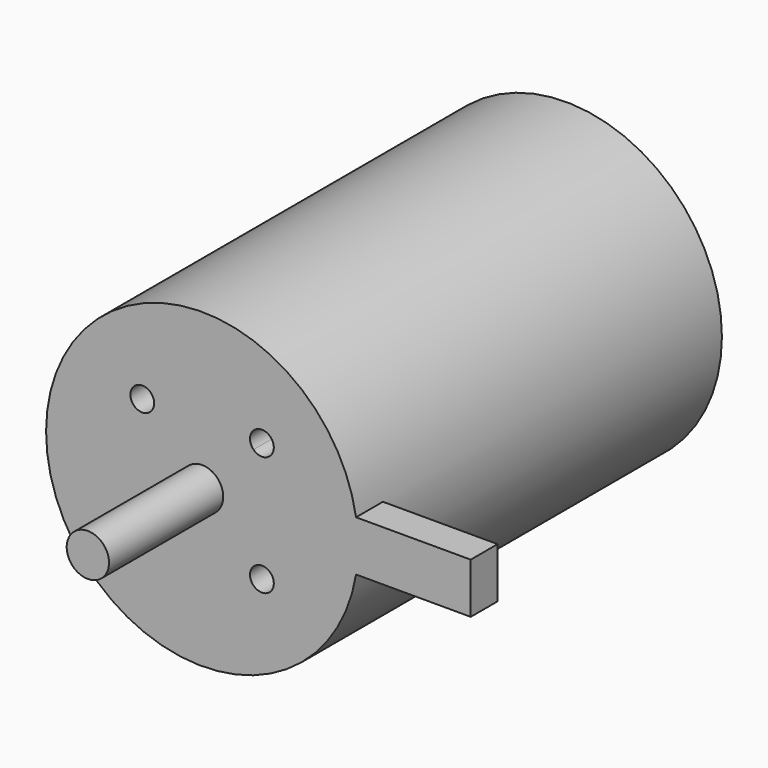
from build123d import *

# Parameters (mm, degrees)
F0_R     = 29.5
F1_DEPTH = 86
F2_R     = 4
F3_DEPTH = 27
F5_W     = 6.35
F5_H     = 9.525
F6_DEPTH = 50.8
F4_R     = 2.25
F7_DEPTH = 25.4


with BuildPart() as f1:
    # F0 (on Front) → F1 (new body)
    with BuildSketch(Plane.XZ):
        Circle(F0_R)
    extrude(amount=F1_DEPTH)

    # F2 (on face) → F3 (join)
    with BuildSketch(Plane.XZ.offset(86)):
        Circle(F2_R)
    extrude(amount=F3_DEPTH)

    # F5 (on Right) → F6 (join)
    with BuildSketch(Plane.YZ):
        with Locations((-82.825, 0)):
            Rectangle(F5_W, F5_H)
    extrude(amount=F6_DEPTH)

    # F4 (on face) → F7 (cut)
    with BuildSketch(Plane.XZ.offset(86)):
        with BuildLine():
            ThreePointArc((9.722718, 9.722718), (12.174746, 9.23498), (13.563708, 11.313708))
            ThreePointArc((13.563708, 11.313708), (10.452671, 13.392437), (9.722718, 9.722718))
        make_face()
        with Locations((-11.313708, 11.313708)):
            Circle(F4_R)
        with Locations((-11.313708, -11.313708)):
            Circle(F4_R)
        with Locations((11.313708, -11.313708)):
            Circle(F4_R)
    extrude(amount=-F7_DEPTH, mode=Mode.SUBTRACT)


solid = f1.part
